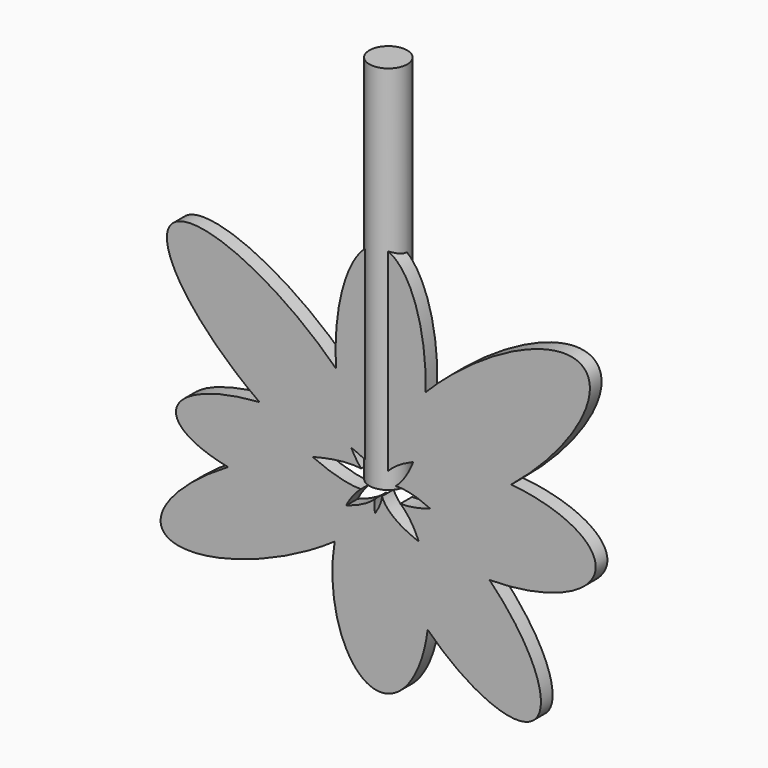
from build123d import *

# Parameters (mm, degrees)
F1_DEPTH = 5
F2_R     = 6.4808273057
F3_DEPTH = 127


with BuildPart() as f1:
    # F0 (on Front) → F1 (new body)
    with BuildSketch(Plane.XZ):
        with BuildLine():
            add(Edge.make_bspline(
                [(1.2905968416, 4.1362009873), (1.3206812708, 7.1107378812), (-0.3874620793, 11.0541696474)],
                knots=[0.2590073847, 0.2590073847, 0.2590073847, 0.5657937119, 0.5657937119, 0.5657937119], degree=2, weights=[1, 0.9882583187, 1]))
            add(Edge.make_bspline(
                [(11.2012473307, 11.3196146007), (3.9428310187, 8.3103875231), (1.2905968416, 4.1362009873)],
                knots=[5.4816878085, 5.4816878085, 5.4816878085, 6.0175692959, 6.0175692959, 6.0175692959], degree=2, weights=[1, 0.9643181209, 1]))
            add(Edge.make_bspline(
                [(11.2012473307, 11.3196146007), (14.9962668194, 20.7342971876), (15.3837926912, 33.6644219222)],
                knots=[0.8129590829, 0.8129590829, 0.8129590829, 1.5005500605, 1.5005500605, 1.5005500605], degree=2, weights=[1, 0.9414821315, 1]))
            add(Edge.make_bspline(
                [(15.3837926912, 33.6644219222), (3.2590989453, 21.3279175949), (-0.3874620793, 11.0541696474)],
                knots=[4.9829925957, 4.9829925957, 4.9829925957, 5.7310512152, 5.7310512152, 5.7310512152], degree=2, weights=[1, 0.9308627207, 1]))
        make_face()
        with BuildLine():
            add(Edge.make_bspline(
                [(5.1555039244, 2.0830188442), (8.6515442859, 4.9943124702), (11.2012473307, 11.3196146007)],
                knots=[0.3408615205, 0.3408615205, 0.3408615205, 0.8129590829, 0.8129590829, 0.8129590829], degree=2, weights=[1, 0.9722696052, 1]))
            add(Edge.make_bspline(
                [(16.9860190438, -0.8512119422), (10.054087252, 2.4090851077), (5.1555039244, 2.0830188442)],
                knots=[5.4356264015, 5.4356264015, 5.4356264015, 5.9401772101, 5.9401772101, 5.9401772101], degree=2, weights=[1, 0.9683469699, 1]))
            add(Edge.make_bspline(
                [(16.9860190438, -0.8512119422), (30.1198262179, 3.5666168242), (44.6759380613, 15.3918220334)],
                knots=[0.7602793543, 0.7602793543, 0.7602793543, 1.5424719501, 1.5424719501, 1.5424719501], degree=2, weights=[1, 0.9244917044, 1]))
            add(Edge.make_bspline(
                [(44.6759380613, 15.3918220334), (25.3869537433, 17.200788953), (11.2012473307, 11.3196146007)],
                knots=[4.4967552023, 4.4967552023, 4.4967552023, 5.4816878085, 5.4816878085, 5.4816878085], degree=2, weights=[1, 0.8811694702, 1]))
        make_face()
        with BuildLine():
            add(Edge.make_bspline(
                [(-6.6616906101, 3.5521234726), (-13.0813376555, 4.3483169969), (-23.2740145951, 1.6262039828)],
                knots=[0.4648384996, 0.4648384996, 0.4648384996, 1.0293779392, 1.0293779392, 1.0293779392], degree=2, weights=[1, 0.9604257135, 1]))
            add(Edge.make_bspline(
                [(-10.0315121484, 8.7064539023), (-8.4909770418, 5.6090417956), (-6.6616906101, 3.5521234726)],
                knots=[5.574975706, 5.574975706, 5.574975706, 5.8365148224, 5.8365148224, 5.8365148224], degree=2, weights=[1, 0.9914618391, 1]))
            add(Edge.make_bspline(
                [(-10.0315121484, 8.7064539023), (-23.0946462378, 13.4274238204), (-41.4236555543, 12.2161093653)],
                knots=[0.7763191176, 0.7763191176, 0.7763191176, 1.7549050296, 1.7549050296, 1.7549050296], degree=2, weights=[1, 0.8826653912, 1]))
            add(Edge.make_bspline(
                [(-41.4236555543, 12.2161093653), (-32.1212767115, 5.5821573654), (-23.2740145951, 1.6262039828)],
                knots=[4.8277938792, 4.8277938792, 4.8277938792, 5.3231457999, 5.3231457999, 5.3231457999], degree=2, weights=[1, 0.9694847812, 1]))
        make_face()
        with BuildLine():
            add(Edge.make_bspline(
                [(6.755731691, -2.7041230243), (11.0734449881, -2.8400290004), (16.9860190438, -0.8512119422)],
                knots=[0.3932058122, 0.3932058122, 0.3932058122, 0.7602793543, 0.7602793543, 0.7602793543], degree=2, weights=[1, 0.9832043542, 1]))
            add(Edge.make_bspline(
                [(13.0812703209, -12.047049795), (10.5481182722, -5.8859700813), (6.755731691, -2.7041230243)],
                knots=[5.3676833795, 5.3676833795, 5.3676833795, 5.8613106224, 5.8613106224, 5.8613106224], degree=2, weights=[1, 0.9696958244, 1]))
            add(Edge.make_bspline(
                [(13.0812703209, -12.047049795), (23.5658024775, -15.831370028), (37.277719183, -15.7554138677)],
                knots=[0.8703665251, 0.8703665251, 0.8703665251, 1.5837335597, 1.5837335597, 1.5837335597], degree=2, weights=[1, 0.9370599859, 1]))
            add(Edge.make_bspline(
                [(37.277719183, -15.7554138677), (27.2423958807, -5.6750959833), (16.9860190438, -0.8512119422)],
                knots=[4.7069075611, 4.7069075611, 4.7069075611, 5.4356264015, 5.4356264015, 5.4356264015], degree=2, weights=[1, 0.934352224, 1]))
        make_face()
        with BuildLine():
            add(Edge.make_bspline(
                [(0.470471246, -2.5114339888), (2.6459168413, -8.2804802693), (13.0812703209, -12.047049795)],
                knots=[0.1600706913, 0.1600706913, 0.1600706913, 0.8703665251, 0.8703665251, 0.8703665251], degree=2, weights=[1, 0.9375950641, 1]))
            add(Edge.make_bspline(
                [(-1.920288576, -8.4596522052), (0.3291931411, -5.116454311), (0.470471246, -2.5114339888)],
                knots=[5.7659892104, 5.7659892104, 5.7659892104, 6.1018735722, 6.1018735722, 6.1018735722], degree=2, weights=[1, 0.9859308265, 1]))
            add(Edge.make_bspline(
                [(-1.920288576, -8.4596522052), (0.0659562788, -21.8230311935), (16.0959045411, -37.6149209232)],
                knots=[0.5032558765, 0.5032558765, 0.5032558765, 1.5891274798, 1.5891274798, 1.5891274798], degree=2, weights=[1, 0.856195586, 1]))
            add(Edge.make_bspline(
                [(16.0959045411, -37.6149209232), (17.7943597607, -23.5101278805), (13.0812703209, -12.047049795)],
                knots=[4.4909776313, 4.4909776313, 4.4909776313, 5.3676833795, 5.3676833795, 5.3676833795], degree=2, weights=[1, 0.9054520115, 1]))
        make_face()
        with BuildLine():
            add(Edge.make_bspline(
                [(-6.7261040724, -2.6793306112), (-9.6071104567, -5.08380202), (-11.8102367974, -9.3057671285)],
                knots=[0.4199072153, 0.4199072153, 0.4199072153, 0.7978119929, 0.7978119929, 0.7978119929], degree=2, weights=[1, 0.9822015469, 1]))
            add(Edge.make_bspline(
                [(-23.2740145951, 1.6262039828), (-13.3014880683, -2.8328986783), (-6.7261040724, -2.6793306112)],
                knots=[5.3231457999, 5.3231457999, 5.3231457999, 5.8784787518, 5.8784787518, 5.8784787518], degree=2, weights=[1, 0.9616977036, 1]))
            add(Edge.make_bspline(
                [(-23.2740145951, 1.6262039828), (-37.8012946004, -2.2535322432), (-52.2107567703, -10.8240570256)],
                knots=[1.0293779392, 1.0293779392, 1.0293779392, 1.813295069, 1.813295069, 1.813295069], degree=2, weights=[1, 0.9241626627, 1]))
            add(Edge.make_bspline(
                [(-52.2107567703, -10.8240570256), (-30.4868942714, -15.1711241087), (-11.8102367974, -9.3057671285)],
                knots=[4.1989763102, 4.1989763102, 4.1989763102, 5.4368027913, 5.4368027913, 5.4368027913], degree=2, weights=[1, 0.8145094214, 1]))
        make_face()
        with BuildLine():
            add(Edge.make_bspline(
                [(-1.4944794904, 3.5916331568), (-3.9877037949, 6.5222431889), (-10.0315121484, 8.7064539023)],
                knots=[0.2932229962, 0.2932229962, 0.2932229962, 0.7763191176, 0.7763191176, 0.7763191176], degree=2, weights=[1, 0.970968833, 1]))
            add(Edge.make_bspline(
                [(-0.3874620793, 11.0541696474), (-1.9223733515, 6.7297413915), (-1.4944794904, 3.5916331568)],
                knots=[5.7310512152, 5.7310512152, 5.7310512152, 6.0585204634, 6.0585204634, 6.0585204634], degree=2, weights=[1, 0.9866254065, 1]))
            add(Edge.make_bspline(
                [(-0.3874620793, 11.0541696474), (-4.2990121632, 20.0844017147), (-15.2519934893, 30.8472329724)],
                knots=[0.5657937119, 0.5657937119, 0.5657937119, 1.2463372882, 1.2463372882, 1.2463372882], degree=2, weights=[1, 0.9426639929, 1]))
            add(Edge.make_bspline(
                [(-15.2519934893, 30.8472329724), (-14.4006386572, 17.4910543212), (-10.0315121484, 8.7064539023)],
                knots=[4.8609339476, 4.8609339476, 4.8609339476, 5.574975706, 5.574975706, 5.574975706], degree=2, weights=[1, 0.9369421365, 1]))
        make_face()
        with BuildLine():
            add(Edge.make_bspline(
                [(-1.9640905085, -4.1033130531), (-2.2796245873, -6.0420533415), (-1.920288576, -8.4596522052)],
                knots=[0.2857822722, 0.2857822722, 0.2857822722, 0.5032558765, 0.5032558765, 0.5032558765], degree=2, weights=[1, 0.9940939766, 1]))
            add(Edge.make_bspline(
                [(-11.8102367974, -9.3057671285), (-4.9771100477, -7.1598409779), (-1.9640905085, -4.1033130531)],
                knots=[5.4368027913, 5.4368027913, 5.4368027913, 5.9466519058, 5.9466519058, 5.9466519058], degree=2, weights=[1, 0.967682323, 1]))
            add(Edge.make_bspline(
                [(-11.8102367974, -9.3057671285), (-14.5157206079, -14.490425874), (-15.7038235631, -21.3843576022)],
                knots=[0.7978119929, 0.7978119929, 0.7978119929, 1.2591304829, 1.2591304829, 1.2591304829], degree=2, weights=[1, 0.9735158904, 1]))
            add(Edge.make_bspline(
                [(-15.7038235631, -21.3843576022), (-6.0469304918, -14.5927007463), (-1.920288576, -8.4596522052)],
                knots=[5.1629226109, 5.1629226109, 5.1629226109, 5.7659892104, 5.7659892104, 5.7659892104], degree=2, weights=[1, 0.9548822452, 1]))
        make_face()
        with BuildLine():
            add(Edge.make_bspline(
                [(-0.3874620793, 11.0541696474), (-4.2990121632, 20.0844017147), (-15.2519934893, 30.8472329724)],
                knots=[0.5657937119, 0.5657937119, 0.5657937119, 1.2463372882, 1.2463372882, 1.2463372882], degree=2, weights=[1, 0.9426639929, 1]))
            add(Edge.make_bspline(
                [(15.3837926912, 33.6644219222), (3.2590989453, 21.3279175949), (-0.3874620793, 11.0541696474)],
                knots=[4.9829925957, 4.9829925957, 4.9829925957, 5.7310512152, 5.7310512152, 5.7310512152], degree=2, weights=[1, 0.9308627207, 1]))
            add(Edge.make_bspline(
                [(15.3837926912, 33.6644219222), (16.5916254232, 73.9647709202), (-0.6036002891, 72.3835417139), (-17.7988260015, 70.8023125076), (-15.2519934893, 30.8472329724)],
                knots=[1.5005500605, 1.5005500605, 1.5005500605, 3.180742004, 3.180742004, 4.8609339476, 4.8609339476, 4.8609339476], degree=2, weights=[1, 0.667391358, 1, 0.667391358, 1]))
        make_face()
        with BuildLine():
            add(Edge.make_bspline(
                [(11.2012473307, 11.3196146007), (14.9962668194, 20.7342971876), (15.3837926912, 33.6644219222)],
                knots=[0.8129590829, 0.8129590829, 0.8129590829, 1.5005500605, 1.5005500605, 1.5005500605], degree=2, weights=[1, 0.9414821315, 1]))
            add(Edge.make_bspline(
                [(44.6759380613, 15.3918220334), (25.3869537433, 17.200788953), (11.2012473307, 11.3196146007)],
                knots=[4.4967552023, 4.4967552023, 4.4967552023, 5.4816878085, 5.4816878085, 5.4816878085], degree=2, weights=[1, 0.8811694702, 1]))
            add(Edge.make_bspline(
                [(44.6759380613, 15.3918220334), (85.6913875576, 48.7122658619), (68.4828192131, 59.4470645613), (51.2742508685, 70.1818632606), (15.3837926912, 33.6644219222)],
                knots=[1.5424719501, 1.5424719501, 1.5424719501, 3.2627322729, 3.2627322729, 4.9829925957, 4.9829925957, 4.9829925957], degree=2, weights=[1, 0.6523388208, 1, 0.6523388208, 1]))
        make_face()
        with BuildLine():
            add(Edge.make_bspline(
                [(16.9860190438, -0.8512119422), (30.1198262179, 3.5666168242), (44.6759380613, 15.3918220334)],
                knots=[0.7602793543, 0.7602793543, 0.7602793543, 1.5424719501, 1.5424719501, 1.5424719501], degree=2, weights=[1, 0.9244917044, 1]))
            add(Edge.make_bspline(
                [(37.277719183, -15.7554138677), (27.2423958807, -5.6750959833), (16.9860190438, -0.8512119422)],
                knots=[4.7069075611, 4.7069075611, 4.7069075611, 5.4356264015, 5.4356264015, 5.4356264015], degree=2, weights=[1, 0.934352224, 1]))
            add(Edge.make_bspline(
                [(37.277719183, -15.7554138677), (70.0939458536, -15.5736307787), (73.414400941, -1.5941852382), (76.7348560284, 12.3852603023), (44.6759380613, 15.3918220334)],
                knots=[1.5837335597, 1.5837335597, 1.5837335597, 3.040244381, 3.040244381, 4.4967552023, 4.4967552023, 4.4967552023], degree=2, weights=[1, 0.7463366814, 1, 0.7463366814, 1]))
        make_face()
        with BuildLine():
            add(Edge.make_bspline(
                [(-10.0315121484, 8.7064539023), (-23.0946462378, 13.4274238204), (-41.4236555543, 12.2161093653)],
                knots=[0.7763191176, 0.7763191176, 0.7763191176, 1.7549050296, 1.7549050296, 1.7549050296], degree=2, weights=[1, 0.8826653912, 1]))
            add(Edge.make_bspline(
                [(-15.2519934893, 30.8472329724), (-14.4006386572, 17.4910543212), (-10.0315121484, 8.7064539023)],
                knots=[4.8609339476, 4.8609339476, 4.8609339476, 5.574975706, 5.574975706, 5.574975706], degree=2, weights=[1, 0.9369421365, 1]))
            add(Edge.make_bspline(
                [(-15.2519934893, 30.8472329724), (-53.8683589158, 68.7931960393), (-70.6056518538, 56.8782258398), (-87.3429447919, 44.9632556402), (-41.4236555543, 12.2161093653)],
                knots=[1.2463372882, 1.2463372882, 1.2463372882, 3.0370655837, 3.0370655837, 4.8277938792, 4.8277938792, 4.8277938792], degree=2, weights=[1, 0.6252346635, 1, 0.6252346635, 1]))
        make_face()
        with BuildLine():
            add(Edge.make_bspline(
                [(-23.2740145951, 1.6262039828), (-37.8012946004, -2.2535322432), (-52.2107567703, -10.8240570256)],
                knots=[1.0293779392, 1.0293779392, 1.0293779392, 1.813295069, 1.813295069, 1.813295069], degree=2, weights=[1, 0.9241626627, 1]))
            add(Edge.make_bspline(
                [(-41.4236555543, 12.2161093653), (-32.1212767115, 5.5821573654), (-23.2740145951, 1.6262039828)],
                knots=[4.8277938792, 4.8277938792, 4.8277938792, 5.3231457999, 5.3231457999, 5.3231457999], degree=2, weights=[1, 0.9694847812, 1]))
            add(Edge.make_bspline(
                [(-41.4236555543, 12.2161093653), (-136.0870560873, 5.960062273), (-52.2107567703, -10.8240570256)],
                knots=[1.7549050296, 1.7549050296, 1.7549050296, 4.1989763102, 4.1989763102, 4.1989763102], degree=2, weights=[1, 0.3417333671, 1]))
        make_face()
        with BuildLine():
            add(Edge.make_bspline(
                [(13.0812703209, -12.047049795), (23.5658024775, -15.831370028), (37.277719183, -15.7554138677)],
                knots=[0.8703665251, 0.8703665251, 0.8703665251, 1.5837335597, 1.5837335597, 1.5837335597], degree=2, weights=[1, 0.9370599859, 1]))
            add(Edge.make_bspline(
                [(16.0959045411, -37.6149209232), (17.7943597607, -23.5101278805), (13.0812703209, -12.047049795)],
                knots=[4.4909776313, 4.4909776313, 4.4909776313, 5.3676833795, 5.3676833795, 5.3676833795], degree=2, weights=[1, 0.9054520115, 1]))
            add(Edge.make_bspline(
                [(16.0959045411, -37.6149209232), (42.3463194641, -63.4754945845), (52.8126150191, -52.67433966), (63.2789105741, -41.8731847355), (37.277719183, -15.7554138677)],
                knots=[1.5891274798, 1.5891274798, 1.5891274798, 3.1480175205, 3.1480175205, 4.7069075611, 4.7069075611, 4.7069075611], degree=2, weights=[1, 0.7113037343, 1, 0.7113037343, 1]))
        make_face()
        with BuildLine():
            add(Edge.make_bspline(
                [(-1.920288576, -8.4596522052), (0.0659562788, -21.8230311935), (16.0959045411, -37.6149209232)],
                knots=[0.5032558765, 0.5032558765, 0.5032558765, 1.5891274798, 1.5891274798, 1.5891274798], degree=2, weights=[1, 0.856195586, 1]))
            add(Edge.make_bspline(
                [(-15.7038235631, -21.3843576022), (-6.0469304918, -14.5927007463), (-1.920288576, -8.4596522052)],
                knots=[5.1629226109, 5.1629226109, 5.1629226109, 5.7659892104, 5.7659892104, 5.7659892104], degree=2, weights=[1, 0.9548822452, 1]))
            add(Edge.make_bspline(
                [(-15.7038235631, -21.3843576022), (-20.9966699373, -52.0959397861), (-4.3456460221, -60.5946130178), (12.305377893, -69.0932862494), (16.0959045411, -37.6149209232)],
                knots=[1.2591304829, 1.2591304829, 1.2591304829, 2.8750540571, 2.8750540571, 4.4909776313, 4.4909776313, 4.4909776313], degree=2, weights=[1, 0.6909732512, 1, 0.6909732512, 1]))
        make_face()
        with BuildLine():
            add(Edge.make_bspline(
                [(-11.8102367974, -9.3057671285), (-14.5157206079, -14.490425874), (-15.7038235631, -21.3843576022)],
                knots=[0.7978119929, 0.7978119929, 0.7978119929, 1.2591304829, 1.2591304829, 1.2591304829], degree=2, weights=[1, 0.9735158904, 1]))
            add(Edge.make_bspline(
                [(-52.2107567703, -10.8240570256), (-30.4868942714, -15.1711241087), (-11.8102367974, -9.3057671285)],
                knots=[4.1989763102, 4.1989763102, 4.1989763102, 5.4368027913, 5.4368027913, 5.4368027913], degree=2, weights=[1, 0.8145094214, 1]))
            add(Edge.make_bspline(
                [(-52.2107567703, -10.8240570256), (-90.8999473915, -33.8357880063), (-70.5316399578, -39.7276948262), (-50.1633325242, -45.619601646), (-15.7038235631, -21.3843576022)],
                knots=[1.813295069, 1.813295069, 1.813295069, 3.4881088399, 3.4881088399, 5.1629226109, 5.1629226109, 5.1629226109], degree=2, weights=[1, 0.6693915245, 1, 0.6693915245, 1]))
        make_face()
    extrude(amount=F1_DEPTH)

    # F2 (on Top) → F3 (join)
    with BuildSketch(Plane.XY):
        with Locations((-1.474969089, 0.1489932038)):
            Circle(F2_R)
    extrude(amount=F3_DEPTH)


solid = f1.part
